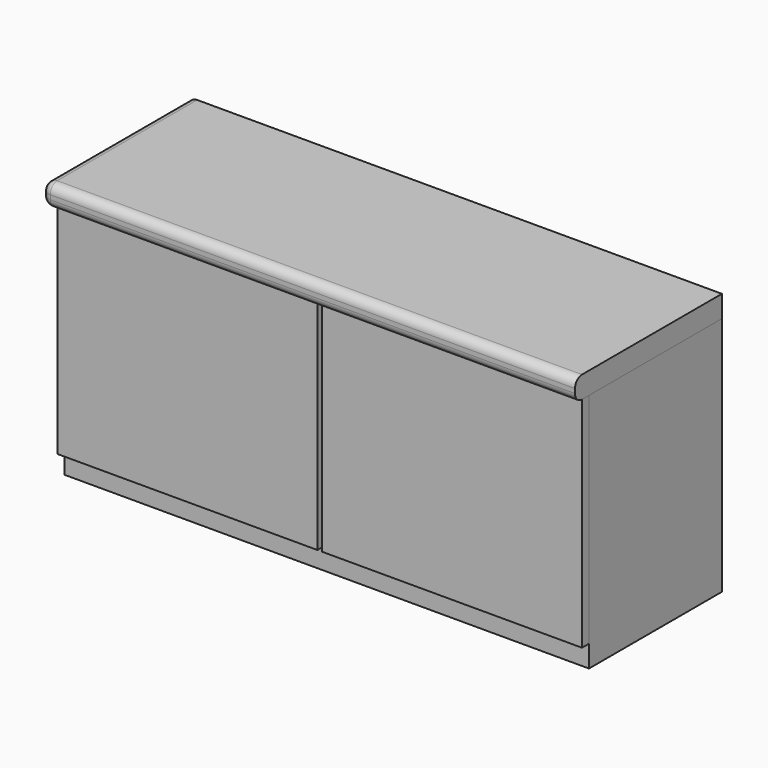
from build123d import *

# Parameters (mm, degrees)
F1_W     = 1200
F1_H     = 380
F2_DEPTH = 550
F3_W     = 595
F3_H     = 500
F4_DEPTH = 20
F5_W     = 420
F5_H     = 50
F6_DEPTH = 1220
F7_R     = 20


with BuildPart() as f2:
    # F1 (on Top) → F2 (new body)
    with BuildSketch(Plane.XY):
        with Locations((600, 190)):
            Rectangle(F1_W, F1_H)
    extrude(amount=F2_DEPTH)


with BuildPart() as f4:
    # F3 (on face) → F4 (new body)
    with BuildSketch(Plane.XZ):
        with Locations((297.5, 300)):
            Rectangle(F3_W, F3_H)
    extrude(amount=F4_DEPTH)


with BuildPart() as f4b:
    # F3 (on face) → F4, piece 2 (new body)
    with BuildSketch(Plane.XZ):
        with Locations((902.5, 300)):
            Rectangle(F3_W, F3_H)
    extrude(amount=F4_DEPTH)


with BuildPart() as f6:
    # F5 (on face) → F6 (new body, through all)
    with BuildSketch(Plane.YZ.offset(1200)):
        with Locations((170, 575)):
            Rectangle(F5_W, F5_H)
    extrude(amount=-F6_DEPTH)

    # F7
    f7_edges = [f6.edges().sort_by_distance(p)[0] for p in [
        (590, -40, 600),
        (-20, 170, 600),
        (-20, 170, 550),
        (-20, -40, 575),
        (590, -40, 550),
    ]]
    fillet(f7_edges, radius=F7_R)


solid = Compound([f2.part, f4.part, f4b.part, f6.part])
